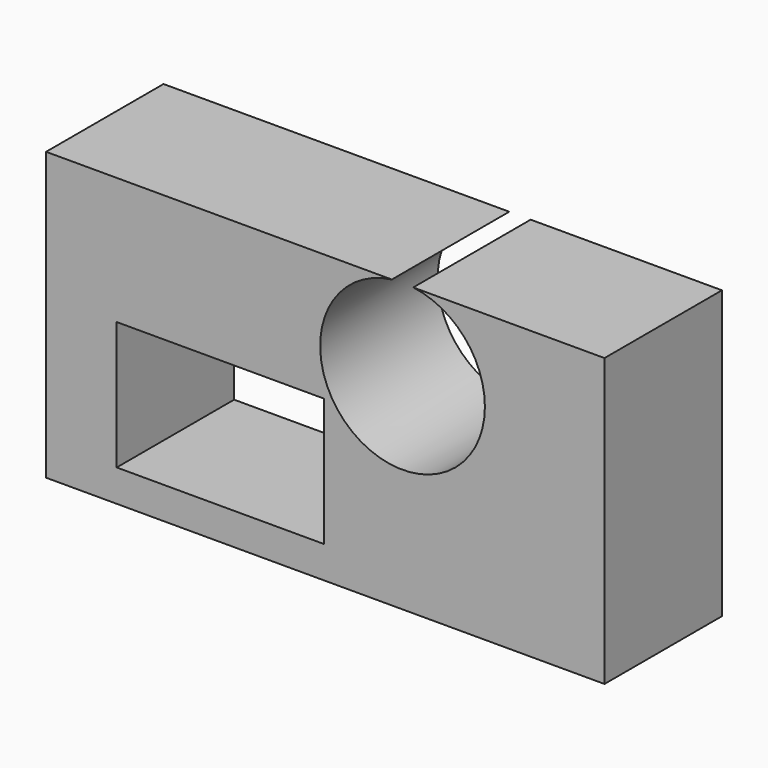
from build123d import *

# Parameters (mm, degrees)
F0_W     = 35.899476
F0_H     = 22.15074
F1_DEPTH = 25.4


with BuildPart() as f1:
    # F0 (on Front) → F1 (new body)
    with BuildSketch(Plane.XZ):
        with BuildLine():
            Line((16.289302, 14.130645), (-43.537661, 14.130645))
            Line((-43.537661, 14.130645), (-43.537661, -35.517566))
            Line((-43.537661, -35.517566), (53.085394, -35.517566))
            Line((53.085394, -35.517566), (53.085394, 14.130645))
            Line((53.085394, 14.130645), (19.992079, 14.130645))
            ThreePointArc((19.992079, 14.130645), (28.852545, 9.399943), (32.392103, 0))
            ThreePointArc((32.392103, 0), (8.740747, -10.711854), (16.289302, 14.130645))
        make_face()
        with Locations((-13.366825, -18.904511)):
            Rectangle(F0_W, F0_H, mode=Mode.SUBTRACT)
    extrude(amount=F1_DEPTH)


solid = f1.part
